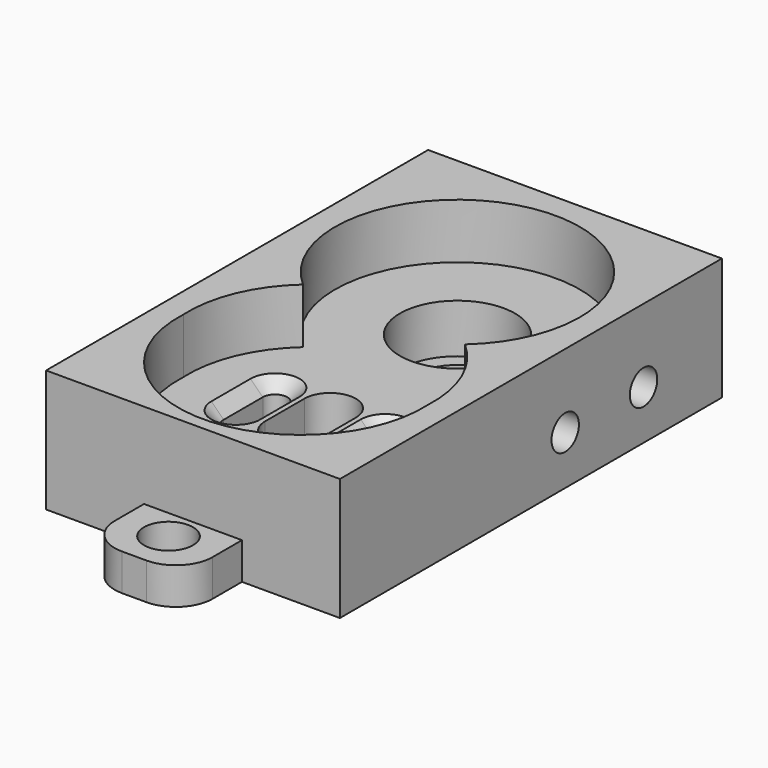
from build123d import *

# Parameters (mm, degrees)
CYLINDER267_R                = 2
CYLINDER267_DEPTH            = 10
CYLINDER267_PITCH_ANGLE      = 90
BOX001027045199_W            = 3
BOX001027045199_H            = 8
BOX001027045199_DEPTH        = 8
FILLET045_R                  = 3
CUT239_PITCH_ANGLE           = 90
CYLINDER103_R                = 1.4
CYLINDER103_DEPTH            = 19
CYLINDER103_ROLL_ANGLE       = 90
CYLINDER105_R                = 1.4
CYLINDER105_DEPTH            = 19
CYLINDER105_ROLL_ANGLE       = 90
CYLINDER106_R                = 1.4
CYLINDER106_DEPTH            = 19
CYLINDER106_ROLL_ANGLE       = 90
CYLINDER027_R                = 1.4
CYLINDER027_DEPTH            = 19
CYLINDER027_ROLL_ANGLE       = 90
CYLINDER098_R                = 1
CYLINDER098_DEPTH            = 30
CYLINDER099_R                = 1
CYLINDER099_DEPTH            = 30
BOX001007_W                  = 4
BOX001007_H                  = 4.2
BOX001007_DEPTH              = 27
CYLINDER097_R                = 2.1
CYLINDER097_DEPTH            = 30
CYLINDER023_R                = 2.1
CYLINDER023_DEPTH            = 30
CYLINDER100_R                = 1
CYLINDER100_DEPTH            = 30
BOX001008_W                  = 4
BOX001008_H                  = 2
BOX001008_DEPTH              = 27
CYLINDER101_R                = 1
CYLINDER101_DEPTH            = 30
BOX001009_W                  = 4
BOX001009_H                  = 2
BOX001009_DEPTH              = 27
CYLINDER093_R                = 3.5
CYLINDER093_DEPTH            = 30
CYLINDER094_R                = 4.7
CYLINDER094_DEPTH            = 30
CYLINDER095_R                = 10
CYLINDER095_DEPTH            = 30
CYLINDER102_R                = 10
CYLINDER102_DEPTH            = 30
CYLINDER096_R                = 10
CYLINDER096_DEPTH            = 30
BOX001006_W                  = 39
BOX001006_H                  = 24
BOX001006_DEPTH              = 10
CHAMFER008_SIZE              = 1
CHAMFER014_SIZE              = 0.5
FUSION112154_ROLL_ANGLE      = 180
FUSION112154_PLACEMENT_ANGLE = -90


with BuildPart() as cylinder285:
    # Cylinder267 → Cylinder267 (new body)
    with BuildSketch(Plane.XY):
        Circle(CYLINDER267_R)
    extrude(amount=CYLINDER267_DEPTH)


with BuildPart() as cylinder285_1:
    # Cylinder267 pitch: moved
    add(cylinder285.part.rotate(Axis((0, 0, 0), (0, 1, 0)), CYLINDER267_PITCH_ANGLE))


with BuildPart() as cylinder285_2:
    # Cylinder267 placement: moved
    add(cylinder285_1.part.moved(Location((-3, 4, 4.5))))


with BuildPart() as cut239:
    # Box001027045199 → Box001027045199 (new body)
    with BuildSketch(Plane.XY):
        with Locations((1.5, 4)):
            Rectangle(BOX001027045199_W, BOX001027045199_H)
    extrude(amount=BOX001027045199_DEPTH)

    # Fillet045
    fillet045_edges = [cut239.edges().sort_by_distance(p)[0] for p in [
        (1.5, 0, 8),
        (1.5, 8, 8),
    ]]
    fillet(fillet045_edges, radius=FILLET045_R)

    # Cut239: cut Cylinder285
    add(cylinder285_2.part, mode=Mode.SUBTRACT)


with BuildPart() as cut239_1:
    # Cut239 pitch: moved
    add(cut239.part.rotate(Axis((0, 0, 0), (0, 1, 0)), CUT239_PITCH_ANGLE))


with BuildPart() as cut239_2:
    # Cut239 placement: moved
    add(cut239_1.part.moved(Location((25, -4, 10))))


with BuildPart() as cylinder103:
    # Cylinder103 → Cylinder103 (new body)
    with BuildSketch(Plane.XY):
        Circle(CYLINDER103_R)
    extrude(amount=CYLINDER103_DEPTH)


with BuildPart() as cylinder103_1:
    # Cylinder103 roll: moved
    add(cylinder103.part.rotate(Axis((0, 0, 0), (1, 0, 0)), CYLINDER103_ROLL_ANGLE))


with BuildPart() as cylinder103_2:
    # Cylinder103 placement: moved
    add(cylinder103_1.part.moved(Location((4, 24, 6))))


with BuildPart() as cylinder105:
    # Cylinder105 → Cylinder105 (new body)
    with BuildSketch(Plane.XY):
        Circle(CYLINDER105_R)
    extrude(amount=CYLINDER105_DEPTH)


with BuildPart() as cylinder105_1:
    # Cylinder105 roll: moved
    add(cylinder105.part.rotate(Axis((0, 0, 0), (1, 0, 0)), CYLINDER105_ROLL_ANGLE))


with BuildPart() as cylinder105_2:
    # Cylinder105 placement: moved
    add(cylinder105_1.part.moved(Location((-4, 24, 6))))


with BuildPart() as part_mirroring011:
    # Part__Mirroring011: instance of Cylinder105
    add(cylinder105_2.part.mirror(Plane(origin=(0, 0, 0), x_dir=(1, 0, 0), z_dir=(0, 1, 0))))


with BuildPart() as cylinder106:
    # Cylinder106 → Cylinder106 (new body)
    with BuildSketch(Plane.XY):
        Circle(CYLINDER106_R)
    extrude(amount=CYLINDER106_DEPTH)


with BuildPart() as cylinder106_1:
    # Cylinder106 roll: moved
    add(cylinder106.part.rotate(Axis((0, 0, 0), (1, 0, 0)), CYLINDER106_ROLL_ANGLE))


with BuildPart() as cylinder106_2:
    # Cylinder106 placement: moved
    add(cylinder106_1.part.moved(Location((4, 24, 6))))


with BuildPart() as part_mirroring012:
    # Part__Mirroring012: instance of Cylinder106
    add(cylinder106_2.part.mirror(Plane(origin=(0, 0, 0), x_dir=(1, 0, 0), z_dir=(0, 1, 0))))


with BuildPart() as m3_tap_a:
    # Cylinder027 → Cylinder027 (new body)
    with BuildSketch(Plane.XY):
        Circle(CYLINDER027_R)
    extrude(amount=CYLINDER027_DEPTH)


with BuildPart() as m3_tap_a_1:
    # Cylinder027 roll: moved
    add(m3_tap_a.part.rotate(Axis((0, 0, 0), (1, 0, 0)), CYLINDER027_ROLL_ANGLE))


with BuildPart() as m3_tap_a_2:
    # Cylinder027 placement: moved
    add(m3_tap_a_1.part.moved(Location((-4, 24, 6))))

    # Fusion062: union Cylinder103, Part__Mirroring011, Part__Mirroring012
    add(cylinder103_2.part)
    add(part_mirroring011.part)
    add(part_mirroring012.part)


with BuildPart() as cylinder109:
    # Cylinder098 → Cylinder098 (new body)
    with BuildSketch(Plane(origin=(17, -4.5, -12.5), x_dir=(1, 0, 0), z_dir=(0, 0, 1))):
        Circle(CYLINDER098_R)
    extrude(amount=CYLINDER098_DEPTH)


with BuildPart() as cylinder110:
    # Cylinder099 → Cylinder099 (new body)
    with BuildSketch(Plane(origin=(17, 4.5, -12.5), x_dir=(1, 0, 0), z_dir=(0, 0, 1))):
        Circle(CYLINDER099_R)
    extrude(amount=CYLINDER099_DEPTH)


with BuildPart() as cube046:
    # Box001007 → Box001007 (new body)
    with BuildSketch(Plane(origin=(13, -2.1, -11), x_dir=(1, 0, 0), z_dir=(0, 0, 1))):
        with Locations((2, 2.1)):
            Rectangle(BOX001007_W, BOX001007_H)
    extrude(amount=BOX001007_DEPTH)


with BuildPart() as cylinder108:
    # Cylinder097 → Cylinder097 (new body)
    with BuildSketch(Plane(origin=(17, 0, -12.5), x_dir=(1, 0, 0), z_dir=(0, 0, 1))):
        Circle(CYLINDER097_R)
    extrude(amount=CYLINDER097_DEPTH)


with BuildPart() as cylinder111:
    # Cylinder023 → Cylinder023 (new body)
    with BuildSketch(Plane(origin=(13, 0, -12.5), x_dir=(1, 0, 0), z_dir=(0, 0, 1))):
        Circle(CYLINDER023_R)
    extrude(amount=CYLINDER023_DEPTH)


with BuildPart() as cylinder112:
    # Cylinder100 → Cylinder100 (new body)
    with BuildSketch(Plane(origin=(13, -4.5, -12.5), x_dir=(1, 0, 0), z_dir=(0, 0, 1))):
        Circle(CYLINDER100_R)
    extrude(amount=CYLINDER100_DEPTH)


with BuildPart() as cube047:
    # Box001008 → Box001008 (new body)
    with BuildSketch(Plane(origin=(13, -5.5, -11), x_dir=(1, 0, 0), z_dir=(0, 0, 1))):
        with Locations((2, 1)):
            Rectangle(BOX001008_W, BOX001008_H)
    extrude(amount=BOX001008_DEPTH)


with BuildPart() as cylinder113:
    # Cylinder101 → Cylinder101 (new body)
    with BuildSketch(Plane(origin=(13, 4.5, -12.5), x_dir=(1, 0, 0), z_dir=(0, 0, 1))):
        Circle(CYLINDER101_R)
    extrude(amount=CYLINDER101_DEPTH)


with BuildPart() as motor_slots:
    # Box001009 → Box001009 (new body)
    with BuildSketch(Plane(origin=(13, 3.5, -11), x_dir=(1, 0, 0), z_dir=(0, 0, 1))):
        with Locations((2, 1)):
            Rectangle(BOX001009_W, BOX001009_H)
    extrude(amount=BOX001009_DEPTH)

    # Fusion058: union Cylinder109, Cylinder110, Cube046, Cylinder108, Cylinder111, Cylinder112, Cube047, Cylinder113
    add(cylinder109.part)
    add(cylinder110.part)
    add(cube046.part)
    add(cylinder108.part)
    add(cylinder111.part)
    add(cylinder112.part)
    add(cube047.part)
    add(cylinder113.part)


with BuildPart() as cylinder104:
    # Cylinder093 → Cylinder093 (new body)
    with BuildSketch(Plane.XY.offset(-12)):
        Circle(CYLINDER093_R)
    extrude(amount=CYLINDER093_DEPTH)


with BuildPart() as cylinder094:
    # Cylinder094 → Cylinder094 (new body)
    with BuildSketch(Plane.XY.offset(-21.5)):
        Circle(CYLINDER094_R)
    extrude(amount=CYLINDER094_DEPTH)


with BuildPart() as cylinder095:
    # Cylinder095 → Cylinder095 (new body)
    with BuildSketch(Plane.XY.offset(-25.5)):
        Circle(CYLINDER095_R)
    extrude(amount=CYLINDER095_DEPTH)


with BuildPart() as cylinder114:
    # Cylinder102 → Cylinder102 (new body)
    with BuildSketch(Plane(origin=(15, 0, -25.5), x_dir=(1, 0, 0), z_dir=(0, 0, 1))):
        Circle(CYLINDER102_R)
    extrude(amount=CYLINDER102_DEPTH)


with BuildPart() as fusion060:
    # Cylinder096 → Cylinder096 (new body)
    with BuildSketch(Plane(origin=(16, 0, -25.5), x_dir=(1, 0, 0), z_dir=(0, 0, 1))):
        Circle(CYLINDER096_R)
    extrude(amount=CYLINDER096_DEPTH)

    # Fusion059: union Cylinder104, Cylinder094, Cylinder095, Cylinder114
    add(cylinder104.part)
    add(cylinder094.part)
    add(cylinder095.part)
    add(cylinder114.part)

    # Fusion060: union motor-slots
    add(motor_slots.part)


with BuildPart() as gearbox001:
    # Box001006 → Box001006 (new body)
    with BuildSketch(Plane(origin=(-12, -12, 0), x_dir=(1, 0, 0), z_dir=(0, 0, 1))):
        with Locations((19.5, 12)):
            Rectangle(BOX001006_W, BOX001006_H)
    extrude(amount=BOX001006_DEPTH)

    # Cut005: cut Fusion060
    add(fusion060.part, mode=Mode.SUBTRACT)

    # Chamfer008
    chamfer008_edges = [gearbox001.edges().sort_by_distance(p)[0] for p in [
        (12, 4.5, 4.5),
        (15, 3.5, 4.5),
        (17.707107, 3.792893, 4.5),
        (17.707107, 5.207107, 4.5),
        (15, 5.5, 4.5),
        (17.707107, -5.207107, 4.5),
        (17.707107, -3.792893, 4.5),
        (15, -3.5, 4.5),
        (12, -4.5, 4.5),
        (15, -5.5, 4.5),
    ]]
    chamfer(chamfer008_edges, length=CHAMFER008_SIZE)

    # Cut045: cut M3-tap-a
    add(m3_tap_a_2.part, mode=Mode.SUBTRACT)

    # Chamfer014
    chamfer014_edges = [gearbox001.edges().sort_by_distance(p)[0] for p in [
        (18.484924, 1.484924, 10),
        (15, 2.1, 10),
        (10.9, 0, 10),
        (15, -2.1, 10),
        (18.484924, -1.484924, 10),
    ]]
    chamfer(chamfer014_edges, length=CHAMFER014_SIZE)

    # Fusion112154: union Cut239
    add(cut239_2.part)


with BuildPart() as gearbox001_1:
    # Fusion112154 roll: moved
    add(gearbox001.part.rotate(Axis((0, 0, 0), (1, 0, 0)), FUSION112154_ROLL_ANGLE))


with BuildPart() as gearbox001_2:
    # Fusion112154 placement: moved
    add(gearbox001_1.part.moved(Location((61.5, 15, 17.5))).rotate(Axis((61.5, 15, 17.5), (0, 0, 1)), FUSION112154_PLACEMENT_ANGLE))


solid = gearbox001_2.part
